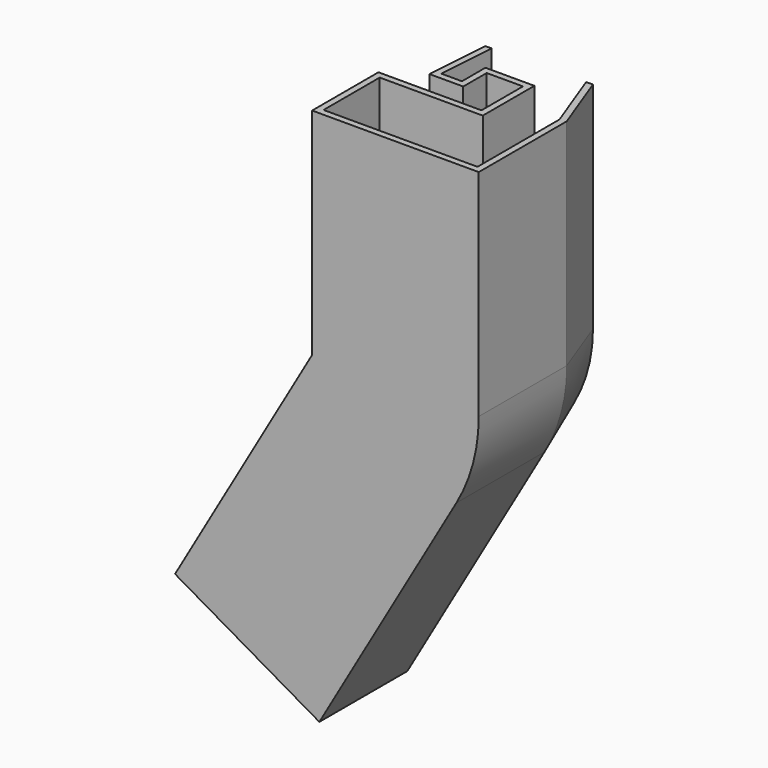
from build123d import *

# Parameters (mm, degrees)
F1_ANGLE = 30
F2_DEPTH = 84.6318360418
F3_DEPTH = 107.8587528318
F4_T     = -2.5


with BuildPart() as f1:
    # F0 (on Top) → F1 (revolve)
    with BuildSketch(Plane.XY):
        Polygon((40.5386388302, 0), (0, 0), (0, -32.6061099768), (65.5476081002, -32.6061099768), (65.5476081002, 10.6613785028), (56.5390067924, 34.8190441728), (14.7391783822, 34.0979024768), (12.93744918, 8.8585615158), (26.2701737512, 8.8585615158), (26.2701737512, 20.3965455294), (40.5386388302, 20.3965455294), align=None)
    revolve(axis=Axis((0, 33.5853546858, 0), (0, 1, 0)), revolution_arc=F1_ANGLE)

    # F2 (add): a face of the model
    f2_faces = [f1.faces().sort_by_distance(p)[0] for p in [
        (35.8528851523, -3.0790957236, 0),
    ]]
    extrude(f2_faces, amount=F2_DEPTH)

    # F3 (add): a face of the model
    f3_faces = [f1.faces().sort_by_distance(p)[0] for p in [
        (31.0495093409, -3.0790957236, -17.9264425762),
    ]]
    extrude(f3_faces, amount=F3_DEPTH)

    # F4
    f4_openings = [f1.faces().sort_by_distance(p)[0] for p in [
        (3.899671, 34.458473, -64.523756),
        (34.42472, 34.458473, -9.224076),
        (35.639093, 34.458473, 42.315918),
        (35.852885, -3.079096, 84.631836),
        (-22.879867, -3.079096, -111.334863),
    ]]
    offset(amount=F4_T, openings=f4_openings, kind=Kind.INTERSECTION)


solid = f1.part
